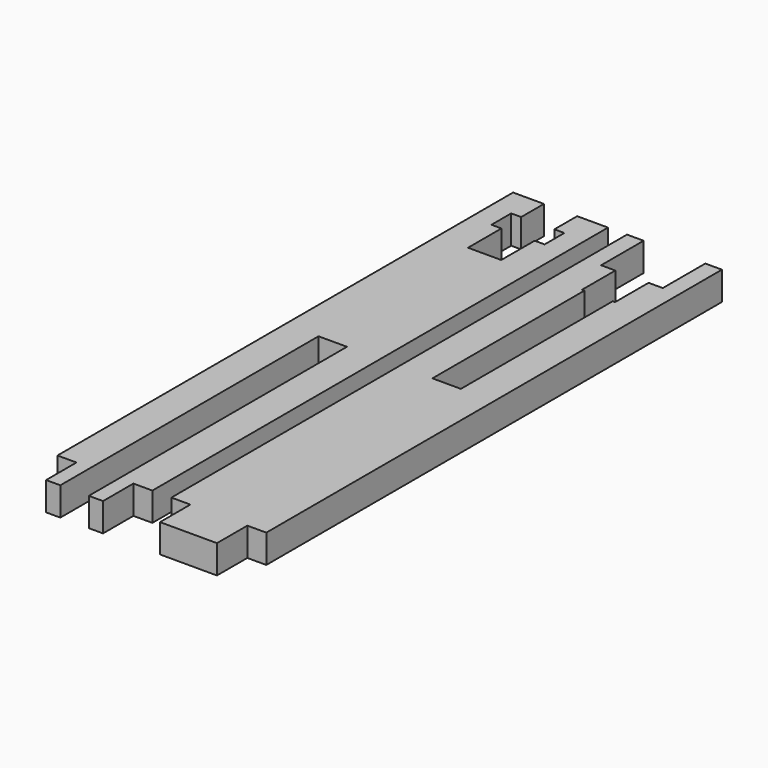
from build123d import *

# Parameters (mm, degrees)
F1_DEPTH = 3


with BuildPart() as f1:
    # F0 (on Top) → F1 (new body)
    with BuildSketch(Plane.XY):
        Polygon((-7.75, 32), (-11, 32), (-11, -28), (-9, -28), (-9, -32), (-7.5, -32), (-7.5, 2), (-4.5, 2), (-4.5, -32), (-3, -32), (-3, -28), (-1, -28), (-1, 32), (-4.25, 32), (-4.25, 29), (-3.2, 29), (-3.2, 26.4), (-4.25, 26.4), (-4.25, 22), (-7.75, 22), (-7.75, 26.4), (-8.8, 26.4), (-8.8, 29), (-7.75, 29), align=None)
        Polygon((2.75, 32), (1, 32), (1, -28), (3, -28), (3, -32), (9, -32), (9, -28), (11, -28), (11, 32), (9.25, 32), (9.25, 26.4), (7.75, 26.4), (7.75, 22), (7.5, 22), (7.5, 2), (4.5, 2), (4.5, 22), (4.25, 22), (4.25, 26.4), (2.75, 26.4), align=None)
    extrude(amount=F1_DEPTH)


solid = f1.part
